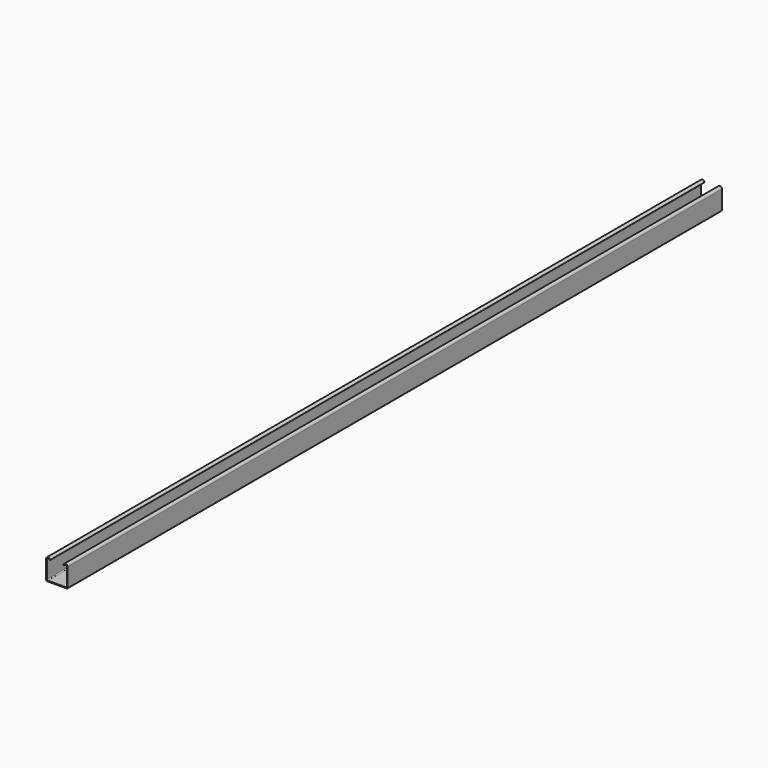
from build123d import *

# Parameters (mm, degrees)
F1_DEPTH = 784.225
F2_R     = 1.5875
F3_R     = 0.635


with BuildPart() as f1:
    # F0 (on Front) → F1 (new body, symmetric)
    with BuildSketch(Plane.XZ):
        with BuildLine():
            Line((0, 37.3126), (0, 0))
            Line((0, 0), (41.275, 0))
            Line((41.275, 0), (41.275, 37.3126))
            ThreePointArc((41.275, 37.3126), (37.3126, 41.275), (33.3502, 37.3126))
            Line((33.3502, 37.3126), (34.9377, 37.3126))
            ThreePointArc((34.9377, 37.3126), (37.3126, 39.6875), (39.6875, 37.3126))
            Line((39.6875, 37.3126), (39.6875, 1.5875))
            Line((39.6875, 1.5875), (1.5875, 1.5875))
            Line((1.5875, 1.5875), (1.5875, 37.3126))
            ThreePointArc((1.5875, 37.3126), (3.9624, 39.6875), (6.3373, 37.3126))
            Line((6.3373, 37.3126), (7.9248, 37.3126))
            ThreePointArc((7.9248, 37.3126), (3.9624, 41.275), (0, 37.3126))
        make_face()
    extrude(amount=F1_DEPTH, both=True)

    # F2
    f2_edges = [f1.edges().sort_by_distance(p)[0] for p in [
        (0, 0, 0),
        (41.275, 0, 0),
        (1.5875, 0, 1.5875),
        (39.6875, 0, 1.5875),
    ]]
    fillet(f2_edges, radius=F2_R)

    # F3
    f3_edges = [f1.edges().sort_by_distance(p)[0] for p in [
        (6.3373, 0, 37.3126),
        (7.9248, 0, 37.3126),
        (33.3502, 0, 37.3126),
        (34.9377, 0, 37.3126),
    ]]
    fillet(f3_edges, radius=F3_R)


solid = f1.part
